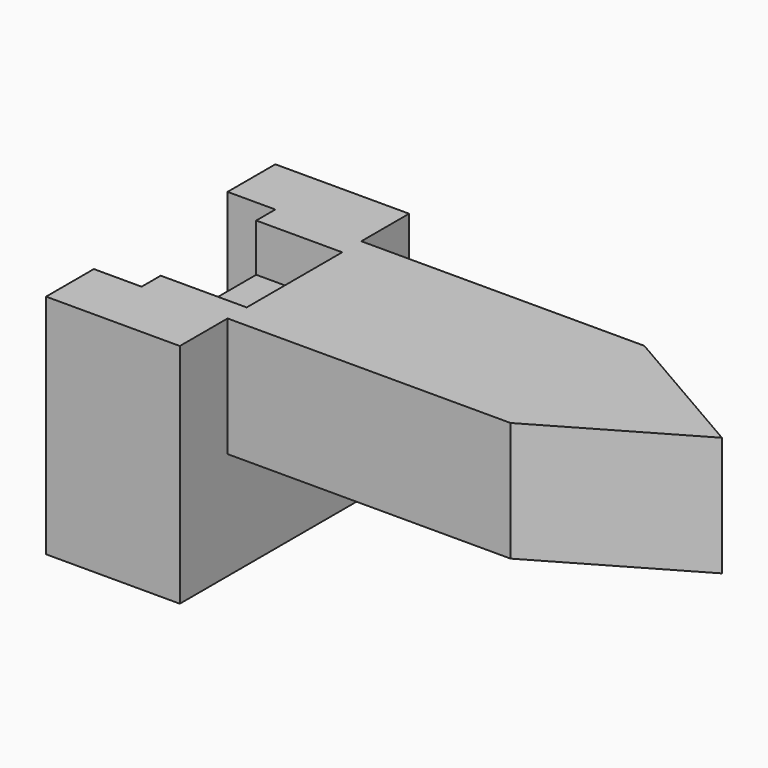
from build123d import *

# Parameters (mm, degrees)
F1_DEPTH = 48.26
F3_DEPTH = 18.288
F5_DEPTH = 25.4


with BuildPart() as f1:
    # F0 (on Top) → F1 (new body)
    with BuildSketch(Plane.XY):
        Polygon((-28.448, 0), (0, 0), (0, 30.48), (0, 60.96), (-28.448, 60.96), (-28.448, 48.26), (-18.288, 48.26), (-18.288, 43.18), (-18.288, 30.48), (-18.288, 17.78), (-18.288, 12.7), (-28.448, 12.7), align=None)
    extrude(amount=F1_DEPTH)

    # F2 (on face) → F3 (cut, through all)
    with BuildSketch(Plane.YZ):
        Polygon((17.78, 38.1), (30.48, 38.1), (43.18, 38.1), (43.18, 48.26), (17.78, 48.26), align=None)
    extrude(amount=-F3_DEPTH, mode=Mode.SUBTRACT)

    # F4 (on face) → F5 (join)
    with BuildSketch(Plane.XY.offset(48.26)):
        Polygon((0, 48.26), (0, 30.48), (0, 12.7), (60.198, 12.7), (90.932, 30.48), (60.198, 48.26), align=None)
    extrude(amount=-F5_DEPTH)


solid = f1.part
